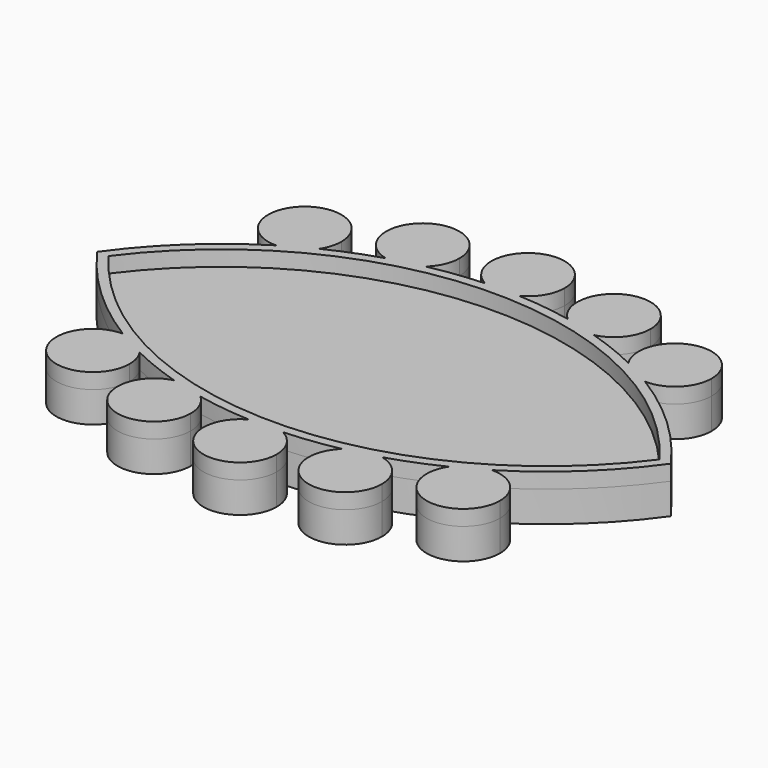
from build123d import *

# Parameters (mm, degrees)
F1_DEPTH = 2
F2_DEPTH = 1


with BuildPart() as f1:
    # F0 (on Top) → F1 (new body)
    with BuildSketch(Plane.XY):
        with BuildLine():
            ThreePointArc((11.9648958984, -6.211551534), (15.5948407634, -3.4394699868), (18.6, 0))
            ThreePointArc((18.6, 0), (15.5948407634, 3.4394699868), (11.9648958984, 6.211551534))
            ThreePointArc((11.9648958984, 6.211551534), (10.8644219389, 6.5058143562), (10.0275512493, 7.2786539211))
            ThreePointArc((10.0275512493, 7.2786539211), (8.4129899391, 7.9924958815), (6.7480766112, 8.5793878474))
            ThreePointArc((6.7480766112, 8.5793878474), (5.6089913904, 8.5902692051), (4.6059970247, 9.1303023954))
            ThreePointArc((4.6059970247, 9.1303023954), (2.8645179473, 9.4194895184), (1.1058946371, 9.5731860436))
            ThreePointArc((1.1058946371, 9.5731860436), (0, 9.3000000343), (-1.1058946371, 9.5731860436))
            ThreePointArc((-1.1058946371, 9.5731860436), (-2.8645179473, 9.4194895184), (-4.6059970247, 9.1303023954))
            ThreePointArc((-4.6059970247, 9.1303023954), (-5.6089913904, 8.5902692051), (-6.7480766112, 8.5793878474))
            ThreePointArc((-6.7480766112, 8.5793878474), (-8.4129899391, 7.9924958815), (-10.0275512493, 7.2786539211))
            ThreePointArc((-10.0275512493, 7.2786539211), (-10.8644219389, 6.5058143562), (-11.9648958984, 6.211551534))
            ThreePointArc((-11.9648958984, 6.211551534), (-15.5948407634, 3.4394699868), (-18.6, 0))
            ThreePointArc((-18.6, 0), (-15.5948407634, -3.4394699868), (-11.9648958984, -6.211551534))
            ThreePointArc((-11.9648958984, -6.211551534), (-10.8644219389, -6.5058143562), (-10.0275512493, -7.2786539211))
            ThreePointArc((-10.0275512493, -7.2786539211), (-8.4129899391, -7.9924958815), (-6.7480766112, -8.5793878474))
            ThreePointArc((-6.7480766112, -8.5793878474), (-5.6089913904, -8.5902692051), (-4.6059970247, -9.1303023954))
            ThreePointArc((-4.6059970247, -9.1303023954), (-2.8645179473, -9.4194895184), (-1.1058946371, -9.5731860436))
            ThreePointArc((-1.1058946371, -9.5731860436), (0, -9.3000000343), (1.1058946371, -9.5731860436))
            ThreePointArc((1.1058946371, -9.5731860436), (2.8645179473, -9.4194895184), (4.6059970247, -9.1303023954))
            ThreePointArc((4.6059970247, -9.1303023954), (5.6089913904, -8.5902692051), (6.7480766112, -8.5793878474))
            ThreePointArc((6.7480766112, -8.5793878474), (8.4129899391, -7.9924958815), (10.0275512493, -7.2786539211))
            ThreePointArc((10.0275512493, -7.2786539211), (10.8644219389, -6.5058143562), (11.9648958984, -6.211551534))
        make_face()
        with BuildLine():
            ThreePointArc((-17.8588213497, 0), (0, 9), (17.8588213497, 0))
            ThreePointArc((17.8588213497, 0), (0, -9), (-17.8588213497, 0))
        make_face(mode=Mode.SUBTRACT)
        with BuildLine():
            ThreePointArc((10.0275512493, 7.2786539211), (10.8644219389, 6.5058143562), (11.9648958984, 6.211551534))
            ThreePointArc((11.9648958984, 6.211551534), (11.009160266, 6.7685895378), (10.0275512493, 7.2786539211))
        make_face()
        with BuildLine():
            ThreePointArc((10.0275512493, 7.2786539211), (11.009160266, 6.7685895378), (11.9648958984, 6.211551534))
            ThreePointArc((11.9648958984, 6.211551534), (13.6735272498, 6.8907742349), (14.3852671597, 8.5861181152))
            ThreePointArc((14.3852671597, 8.5861181152), (11.3277443714, 10.8609340734), (10.0275512493, 7.2786539211))
        make_face()
        with BuildLine():
            ThreePointArc((14.3852671597, -8.5861181152), (13.6735272498, -6.8907742349), (11.9648958984, -6.211551534))
            ThreePointArc((11.9648958984, -6.211551534), (11.009160266, -6.7685895378), (10.0275512493, -7.2786539211))
            ThreePointArc((10.0275512493, -7.2786539211), (11.3277443714, -10.8609340734), (14.3852671597, -8.5861181152))
        make_face()
        with BuildLine():
            ThreePointArc((10.0275512493, -7.2786539211), (11.009160266, -6.7685895378), (11.9648958984, -6.211551534))
            ThreePointArc((11.9648958984, -6.211551534), (10.8644219389, -6.5058143562), (10.0275512493, -7.2786539211))
        make_face()
        with BuildLine():
            ThreePointArc((4.6059970247, 9.1303023954), (5.6089913904, 8.5902692051), (6.7480766112, 8.5793878474))
            ThreePointArc((6.7480766112, 8.5793878474), (5.6837156634, 8.8808139735), (4.6059970247, 9.1303023954))
        make_face()
        with BuildLine():
            ThreePointArc((4.6059970247, 9.1303023954), (5.6837156634, 8.8808139735), (6.7480766112, 8.5793878474))
            ThreePointArc((6.7480766112, 8.5793878474), (8.0634837694, 9.417277783), (8.5755586191, 10.8904155513))
            ThreePointArc((8.5755586191, 10.8904155513), (5.2378693615, 13.0615568165), (4.6059970247, 9.1303023954))
        make_face()
        with BuildLine():
            ThreePointArc((8.5755586191, -10.8904155513), (8.0634837694, -9.417277783), (6.7480766112, -8.5793878474))
            ThreePointArc((6.7480766112, -8.5793878474), (5.6837156634, -8.8808139735), (4.6059970247, -9.1303023954))
            ThreePointArc((4.6059970247, -9.1303023954), (5.2378693615, -13.0615568165), (8.5755586191, -10.8904155513))
        make_face()
        with BuildLine():
            ThreePointArc((4.6059970247, -9.1303023954), (5.6837156634, -8.8808139735), (6.7480766112, -8.5793878474))
            ThreePointArc((6.7480766112, -8.5793878474), (5.6089913904, -8.5902692051), (4.6059970247, -9.1303023954))
        make_face()
        with BuildLine():
            ThreePointArc((-1.1058946371, 9.5731860436), (0, 9.3000000343), (1.1058946371, 9.5731860436))
            ThreePointArc((1.1058946371, 9.5731860436), (0, 9.6), (-1.1058946371, 9.5731860436))
        make_face()
        with BuildLine():
            ThreePointArc((-1.1058946371, 9.5731860436), (0, 9.6), (1.1058946371, 9.5731860436))
            ThreePointArc((1.1058946371, 9.5731860436), (2.0331164211, 10.447375247), (2.375, 11.6750000343))
            ThreePointArc((2.375, 11.6750000343), (-1.2276247873, 13.7081164553), (-1.1058946371, 9.5731860436))
        make_face()
        with BuildLine():
            ThreePointArc((2.375, -11.6750000343), (2.0331164211, -10.447375247), (1.1058946371, -9.5731860436))
            ThreePointArc((1.1058946371, -9.5731860436), (0, -9.6), (-1.1058946371, -9.5731860436))
            ThreePointArc((-1.1058946371, -9.5731860436), (-1.2276247873, -13.7081164553), (2.375, -11.6750000343))
        make_face()
        with BuildLine():
            ThreePointArc((-1.1058946371, -9.5731860436), (0, -9.6), (1.1058946371, -9.5731860436))
            ThreePointArc((1.1058946371, -9.5731860436), (0, -9.3000000343), (-1.1058946371, -9.5731860436))
        make_face()
        with BuildLine():
            ThreePointArc((-6.7480766112, 8.5793878474), (-5.6089913904, 8.5902692051), (-4.6059970247, 9.1303023954))
            ThreePointArc((-4.6059970247, 9.1303023954), (-5.6837156634, 8.8808139735), (-6.7480766112, 8.5793878474))
        make_face()
        with BuildLine():
            ThreePointArc((-6.7480766112, 8.5793878474), (-5.6837156634, 8.8808139735), (-4.6059970247, 9.1303023954))
            ThreePointArc((-4.6059970247, 9.1303023954), (-4.0294173539, 9.9277262937), (-3.8255586191, 10.8904155513))
            ThreePointArc((-3.8255586191, 10.8904155513), (-7.6736963874, 12.7533407016), (-6.7480766112, 8.5793878474))
        make_face()
        with BuildLine():
            ThreePointArc((-6.7480766112, -8.5793878474), (-5.6837156634, -8.8808139735), (-4.6059970247, -9.1303023954))
            ThreePointArc((-4.6059970247, -9.1303023954), (-5.6089913904, -8.5902692051), (-6.7480766112, -8.5793878474))
        make_face()
        with BuildLine():
            ThreePointArc((-3.8255586191, -10.8904155513), (-4.0294173539, -9.9277262937), (-4.6059970247, -9.1303023954))
            ThreePointArc((-4.6059970247, -9.1303023954), (-5.6837156634, -8.8808139735), (-6.7480766112, -8.5793878474))
            ThreePointArc((-6.7480766112, -8.5793878474), (-7.6736963874, -12.7533407016), (-3.8255586191, -10.8904155513))
        make_face()
        with BuildLine():
            ThreePointArc((-11.9648958984, 6.211551534), (-10.8644219389, 6.5058143562), (-10.0275512493, 7.2786539211))
            ThreePointArc((-10.0275512493, 7.2786539211), (-11.009160266, 6.7685895378), (-11.9648958984, 6.211551534))
        make_face()
        with BuildLine():
            ThreePointArc((-11.9648958984, 6.211551534), (-11.009160266, 6.7685895378), (-10.0275512493, 7.2786539211))
            ThreePointArc((-10.0275512493, 7.2786539211), (-9.7354512015, 7.903595327), (-9.6352671597, 8.5861181152))
            ThreePointArc((-9.6352671597, 8.5861181152), (-13.70561104, 10.2493782053), (-11.9648958984, 6.211551534))
        make_face()
        with BuildLine():
            ThreePointArc((-11.9648958984, -6.211551534), (-11.009160266, -6.7685895378), (-10.0275512493, -7.2786539211))
            ThreePointArc((-10.0275512493, -7.2786539211), (-10.8644219389, -6.5058143562), (-11.9648958984, -6.211551534))
        make_face()
        with BuildLine():
            ThreePointArc((-9.6352671597, -8.5861181152), (-9.7354512015, -7.903595327), (-10.0275512493, -7.2786539211))
            ThreePointArc((-10.0275512493, -7.2786539211), (-11.009160266, -6.7685895378), (-11.9648958984, -6.211551534))
            ThreePointArc((-11.9648958984, -6.211551534), (-13.70561104, -10.2493782053), (-9.6352671597, -8.5861181152))
        make_face()
        with BuildLine():
            ThreePointArc((-17.8588213497, 0), (0, -9), (17.8588213497, 0))
            ThreePointArc((17.8588213497, 0), (0, 9), (-17.8588213497, 0))
        make_face()
    extrude(amount=F1_DEPTH)


with BuildPart() as f2:
    # F0 (on Top) → F2 (new body)
    with BuildSketch(Plane.XY):
        with BuildLine():
            ThreePointArc((11.9648958984, -6.211551534), (15.5948407634, -3.4394699868), (18.6, 0))
            ThreePointArc((18.6, 0), (15.5948407634, 3.4394699868), (11.9648958984, 6.211551534))
            ThreePointArc((11.9648958984, 6.211551534), (10.8644219389, 6.5058143562), (10.0275512493, 7.2786539211))
            ThreePointArc((10.0275512493, 7.2786539211), (8.4129899391, 7.9924958815), (6.7480766112, 8.5793878474))
            ThreePointArc((6.7480766112, 8.5793878474), (5.6089913904, 8.5902692051), (4.6059970247, 9.1303023954))
            ThreePointArc((4.6059970247, 9.1303023954), (2.8645179473, 9.4194895184), (1.1058946371, 9.5731860436))
            ThreePointArc((1.1058946371, 9.5731860436), (0, 9.3000000343), (-1.1058946371, 9.5731860436))
            ThreePointArc((-1.1058946371, 9.5731860436), (-2.8645179473, 9.4194895184), (-4.6059970247, 9.1303023954))
            ThreePointArc((-4.6059970247, 9.1303023954), (-5.6089913904, 8.5902692051), (-6.7480766112, 8.5793878474))
            ThreePointArc((-6.7480766112, 8.5793878474), (-8.4129899391, 7.9924958815), (-10.0275512493, 7.2786539211))
            ThreePointArc((-10.0275512493, 7.2786539211), (-10.8644219389, 6.5058143562), (-11.9648958984, 6.211551534))
            ThreePointArc((-11.9648958984, 6.211551534), (-15.5948407634, 3.4394699868), (-18.6, 0))
            ThreePointArc((-18.6, 0), (-15.5948407634, -3.4394699868), (-11.9648958984, -6.211551534))
            ThreePointArc((-11.9648958984, -6.211551534), (-10.8644219389, -6.5058143562), (-10.0275512493, -7.2786539211))
            ThreePointArc((-10.0275512493, -7.2786539211), (-8.4129899391, -7.9924958815), (-6.7480766112, -8.5793878474))
            ThreePointArc((-6.7480766112, -8.5793878474), (-5.6089913904, -8.5902692051), (-4.6059970247, -9.1303023954))
            ThreePointArc((-4.6059970247, -9.1303023954), (-2.8645179473, -9.4194895184), (-1.1058946371, -9.5731860436))
            ThreePointArc((-1.1058946371, -9.5731860436), (0, -9.3000000343), (1.1058946371, -9.5731860436))
            ThreePointArc((1.1058946371, -9.5731860436), (2.8645179473, -9.4194895184), (4.6059970247, -9.1303023954))
            ThreePointArc((4.6059970247, -9.1303023954), (5.6089913904, -8.5902692051), (6.7480766112, -8.5793878474))
            ThreePointArc((6.7480766112, -8.5793878474), (8.4129899391, -7.9924958815), (10.0275512493, -7.2786539211))
            ThreePointArc((10.0275512493, -7.2786539211), (10.8644219389, -6.5058143562), (11.9648958984, -6.211551534))
        make_face()
        with BuildLine():
            ThreePointArc((-17.8588213497, 0), (0, 9), (17.8588213497, 0))
            ThreePointArc((17.8588213497, 0), (0, -9), (-17.8588213497, 0))
        make_face(mode=Mode.SUBTRACT)
        with BuildLine():
            ThreePointArc((10.0275512493, 7.2786539211), (10.8644219389, 6.5058143562), (11.9648958984, 6.211551534))
            ThreePointArc((11.9648958984, 6.211551534), (11.009160266, 6.7685895378), (10.0275512493, 7.2786539211))
        make_face()
        with BuildLine():
            ThreePointArc((10.0275512493, 7.2786539211), (11.009160266, 6.7685895378), (11.9648958984, 6.211551534))
            ThreePointArc((11.9648958984, 6.211551534), (13.6735272498, 6.8907742349), (14.3852671597, 8.5861181152))
            ThreePointArc((14.3852671597, 8.5861181152), (11.3277443714, 10.8609340734), (10.0275512493, 7.2786539211))
        make_face()
        with BuildLine():
            ThreePointArc((14.3852671597, -8.5861181152), (13.6735272498, -6.8907742349), (11.9648958984, -6.211551534))
            ThreePointArc((11.9648958984, -6.211551534), (11.009160266, -6.7685895378), (10.0275512493, -7.2786539211))
            ThreePointArc((10.0275512493, -7.2786539211), (11.3277443714, -10.8609340734), (14.3852671597, -8.5861181152))
        make_face()
        with BuildLine():
            ThreePointArc((10.0275512493, -7.2786539211), (11.009160266, -6.7685895378), (11.9648958984, -6.211551534))
            ThreePointArc((11.9648958984, -6.211551534), (10.8644219389, -6.5058143562), (10.0275512493, -7.2786539211))
        make_face()
        with BuildLine():
            ThreePointArc((4.6059970247, 9.1303023954), (5.6089913904, 8.5902692051), (6.7480766112, 8.5793878474))
            ThreePointArc((6.7480766112, 8.5793878474), (5.6837156634, 8.8808139735), (4.6059970247, 9.1303023954))
        make_face()
        with BuildLine():
            ThreePointArc((4.6059970247, 9.1303023954), (5.6837156634, 8.8808139735), (6.7480766112, 8.5793878474))
            ThreePointArc((6.7480766112, 8.5793878474), (8.0634837694, 9.417277783), (8.5755586191, 10.8904155513))
            ThreePointArc((8.5755586191, 10.8904155513), (5.2378693615, 13.0615568165), (4.6059970247, 9.1303023954))
        make_face()
        with BuildLine():
            ThreePointArc((8.5755586191, -10.8904155513), (8.0634837694, -9.417277783), (6.7480766112, -8.5793878474))
            ThreePointArc((6.7480766112, -8.5793878474), (5.6837156634, -8.8808139735), (4.6059970247, -9.1303023954))
            ThreePointArc((4.6059970247, -9.1303023954), (5.2378693615, -13.0615568165), (8.5755586191, -10.8904155513))
        make_face()
        with BuildLine():
            ThreePointArc((4.6059970247, -9.1303023954), (5.6837156634, -8.8808139735), (6.7480766112, -8.5793878474))
            ThreePointArc((6.7480766112, -8.5793878474), (5.6089913904, -8.5902692051), (4.6059970247, -9.1303023954))
        make_face()
        with BuildLine():
            ThreePointArc((-1.1058946371, 9.5731860436), (0, 9.3000000343), (1.1058946371, 9.5731860436))
            ThreePointArc((1.1058946371, 9.5731860436), (0, 9.6), (-1.1058946371, 9.5731860436))
        make_face()
        with BuildLine():
            ThreePointArc((-1.1058946371, 9.5731860436), (0, 9.6), (1.1058946371, 9.5731860436))
            ThreePointArc((1.1058946371, 9.5731860436), (2.0331164211, 10.447375247), (2.375, 11.6750000343))
            ThreePointArc((2.375, 11.6750000343), (-1.2276247873, 13.7081164553), (-1.1058946371, 9.5731860436))
        make_face()
        with BuildLine():
            ThreePointArc((2.375, -11.6750000343), (2.0331164211, -10.447375247), (1.1058946371, -9.5731860436))
            ThreePointArc((1.1058946371, -9.5731860436), (0, -9.6), (-1.1058946371, -9.5731860436))
            ThreePointArc((-1.1058946371, -9.5731860436), (-1.2276247873, -13.7081164553), (2.375, -11.6750000343))
        make_face()
        with BuildLine():
            ThreePointArc((-1.1058946371, -9.5731860436), (0, -9.6), (1.1058946371, -9.5731860436))
            ThreePointArc((1.1058946371, -9.5731860436), (0, -9.3000000343), (-1.1058946371, -9.5731860436))
        make_face()
        with BuildLine():
            ThreePointArc((-6.7480766112, 8.5793878474), (-5.6089913904, 8.5902692051), (-4.6059970247, 9.1303023954))
            ThreePointArc((-4.6059970247, 9.1303023954), (-5.6837156634, 8.8808139735), (-6.7480766112, 8.5793878474))
        make_face()
        with BuildLine():
            ThreePointArc((-6.7480766112, 8.5793878474), (-5.6837156634, 8.8808139735), (-4.6059970247, 9.1303023954))
            ThreePointArc((-4.6059970247, 9.1303023954), (-4.0294173539, 9.9277262937), (-3.8255586191, 10.8904155513))
            ThreePointArc((-3.8255586191, 10.8904155513), (-7.6736963874, 12.7533407016), (-6.7480766112, 8.5793878474))
        make_face()
        with BuildLine():
            ThreePointArc((-6.7480766112, -8.5793878474), (-5.6837156634, -8.8808139735), (-4.6059970247, -9.1303023954))
            ThreePointArc((-4.6059970247, -9.1303023954), (-5.6089913904, -8.5902692051), (-6.7480766112, -8.5793878474))
        make_face()
        with BuildLine():
            ThreePointArc((-3.8255586191, -10.8904155513), (-4.0294173539, -9.9277262937), (-4.6059970247, -9.1303023954))
            ThreePointArc((-4.6059970247, -9.1303023954), (-5.6837156634, -8.8808139735), (-6.7480766112, -8.5793878474))
            ThreePointArc((-6.7480766112, -8.5793878474), (-7.6736963874, -12.7533407016), (-3.8255586191, -10.8904155513))
        make_face()
        with BuildLine():
            ThreePointArc((-11.9648958984, 6.211551534), (-10.8644219389, 6.5058143562), (-10.0275512493, 7.2786539211))
            ThreePointArc((-10.0275512493, 7.2786539211), (-11.009160266, 6.7685895378), (-11.9648958984, 6.211551534))
        make_face()
        with BuildLine():
            ThreePointArc((-11.9648958984, 6.211551534), (-11.009160266, 6.7685895378), (-10.0275512493, 7.2786539211))
            ThreePointArc((-10.0275512493, 7.2786539211), (-9.7354512015, 7.903595327), (-9.6352671597, 8.5861181152))
            ThreePointArc((-9.6352671597, 8.5861181152), (-13.70561104, 10.2493782053), (-11.9648958984, 6.211551534))
        make_face()
        with BuildLine():
            ThreePointArc((-11.9648958984, -6.211551534), (-11.009160266, -6.7685895378), (-10.0275512493, -7.2786539211))
            ThreePointArc((-10.0275512493, -7.2786539211), (-10.8644219389, -6.5058143562), (-11.9648958984, -6.211551534))
        make_face()
        with BuildLine():
            ThreePointArc((-9.6352671597, -8.5861181152), (-9.7354512015, -7.903595327), (-10.0275512493, -7.2786539211))
            ThreePointArc((-10.0275512493, -7.2786539211), (-11.009160266, -6.7685895378), (-11.9648958984, -6.211551534))
            ThreePointArc((-11.9648958984, -6.211551534), (-13.70561104, -10.2493782053), (-9.6352671597, -8.5861181152))
        make_face()
    extrude(amount=F2_DEPTH)


with BuildPart() as f2_1:
    # F3: moved
    add(f2.part.moved(Location((0, 0, 2))))


solid = Compound([f1.part, f2_1.part])
